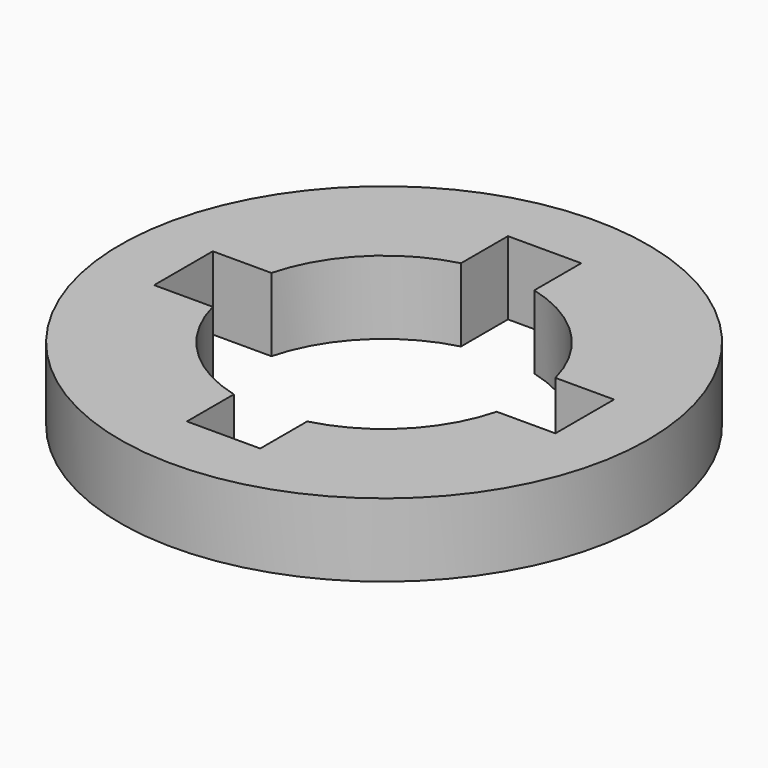
from build123d import *

# Parameters (mm, degrees)
F0_R     = 28.575
F1_DEPTH = 7.9375


with BuildPart() as f1:
    # F0 (on Top) → F1 (new body)
    with BuildSketch(Plane.XY):
        Circle(F0_R)
        with BuildLine():
            ThreePointArc((3.96875, 15.370903), (11.22532, 11.22532), (15.370903, 3.96875))
            Line((15.370903, 3.96875), (21.720903, 3.96875))
            Line((21.720903, 3.96875), (21.720903, -3.96875))
            Line((21.720903, -3.96875), (15.370903, -3.96875))
            ThreePointArc((15.370903, -3.96875), (11.22532, -11.22532), (3.96875, -15.370903))
            Line((3.96875, -15.370903), (3.96875, -21.720903))
            Line((3.96875, -21.720903), (-3.96875, -21.720903))
            Line((-3.96875, -21.720903), (-3.96875, -15.370903))
            ThreePointArc((-3.96875, -15.370903), (-11.22532, -11.22532), (-15.370903, -3.96875))
            Line((-15.370903, -3.96875), (-21.720903, -3.96875))
            Line((-21.720903, -3.96875), (-21.720903, 3.96875))
            Line((-21.720903, 3.96875), (-15.370903, 3.96875))
            ThreePointArc((-15.370903, 3.96875), (-11.22532, 11.22532), (-3.96875, 15.370903))
            Line((-3.96875, 15.370903), (-3.96875, 21.720903))
            Line((-3.96875, 21.720903), (3.96875, 21.720903))
            Line((3.96875, 21.720903), (3.96875, 15.370903))
        make_face(mode=Mode.SUBTRACT)
    extrude(amount=F1_DEPTH)


solid = f1.part
